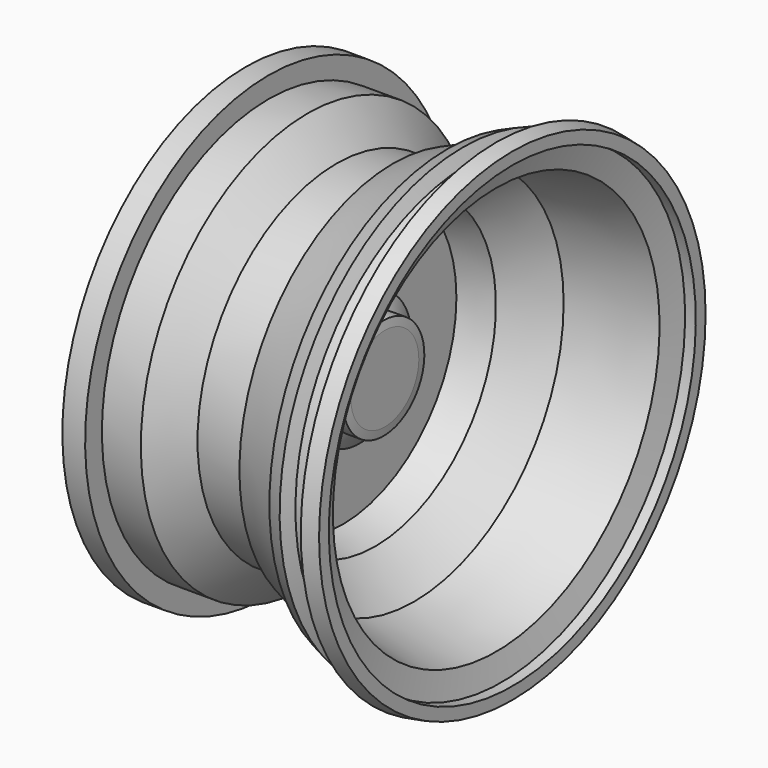
from build123d import *


with BuildPart() as f1:
    # F0 (on Front) → F1 (revolve)
    with BuildSketch(Plane.XZ):
        Polygon((-5.5380323902, 50.2795092762), (-30.604917556, 50.2795092762), (-46.0446093346, 54.9755878761), (-54.0652101429, 53.2870396276), (-56.2547557056, 63.687376678), (-67.3308223486, 61.3555721939), (-67.3308223486, 55.2345886827), (-62.3757392168, 55.2345886827), (-62.3757392168, 46.4903302491), (-37.6003272831, 39.7863946855), (-37.6003272831, 25.212623179), (-29.4390171766, 11.5132788196), (-29.4390171766, -6.8496726453), (-20.9862291813, -20.2575419098), (2.331804717, -12.0962299407), (11.3675408065, -29.8762302846), (31.1878658831, -23.4637726098), (18.0714763701, -13.5536063462), (22.1521314234, 11.2218027934), (36.7259047925, 29.8762302846), (36.7259047925, 45.3244261444), (9.9101634696, 49.4050830603), (-5.5380323902, 46.4903302491), align=None)
    revolve(axis=Axis((21.2777033448, 0, -26.6700014472), (-0.9514445247, 0, -0.3078202664)))


with BuildPart() as f4:
    # F3 (on Front) → F4 (revolve)
    with BuildSketch(Plane.XZ):
        Polygon((-49.0032210946, 49.8506426811), (-65.442211926, 49.8506426811), (-65.4422044754, 40.3364561498), (-60.2509491146, 40.3364561498), (-60.2509491146, 23.4703980386), (-33.4294438362, 23.4703980386), (-13.5296229273, 6.6043394618), (-13.5296229273, -6.8020136096), (0, -10.2617200464), (0, -87.2401446104), (15.8875081688, -87.2401446104), (15.8875081688, -115.782700479), (34.9221229553, -115.782700479), (34.9221229553, -85.077829659), (34.0569131076, -79.0233463049), (23.2417937368, -79.0233463049), (16.7527180165, -68.644233048), (4.6397843398, -68.644233048), (4.6397843398, -13.2889607921), (28.0004460365, -6.8020136096), (56.1197660863, 19.1457699984), (115.3866276145, 31.6872000694), (119.280077517, 49.8506426811), (127.0151686524, 49.8506426811), (127.0151686524, 58.6822458537), (115.3866276145, 60.6622211635), (111.9257882237, 40.3364561498), (95.2339635486, 40.3364561498), (91.3085111252, 49.6624633169), (80.1309212987, 44.9576527494), (82.0760503411, 40.3364561498), (40.9785918891, 23.0379365385), (32.3264971375, 9.6315825358), (0, 9.6315825358), (-20.88390477, 34.7144380212), (-49.0032210946, 34.7144380212), align=None)
    revolve(axis=Axis((25.4048155621, 0, -115.782700479), (-1, 0, 0)))


solid = f4.part
